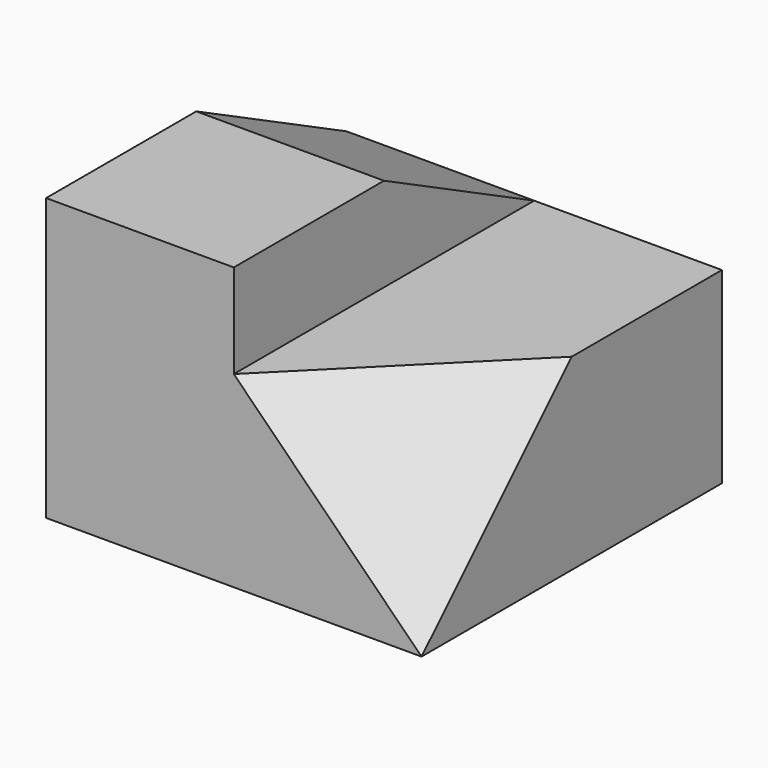
from build123d import *

# Parameters (mm, degrees)
F1_DEPTH = 127
F3_DEPTH = 127
F7_DEPTH = 246.888


with BuildPart() as f1:
    # F0 (on Front) → F1 (new body, symmetric)
    with BuildSketch(Plane.XZ):
        Polygon((0, 190.5), (0, 0), (254, 0), (254, 127), (127, 127), (127, 190.5), align=None)
    extrude(amount=F1_DEPTH, both=True)

    # F2 (on face) → F3 (cut)
    with BuildSketch(Plane.YZ.offset(127)):
        Polygon((127, 190.5), (0, 190.5), (127, 127), align=None)
    extrude(amount=-F3_DEPTH, mode=Mode.SUBTRACT)

    # F6 (on 3pt) → F7 (cut)
    with BuildSketch(Plane(origin=(127, -127, 127), x_dir=(0.8164965809, 0.4082482905, -0.4082482905), z_dir=(0.5773502692, -0.5773502692, 0.5773502692))):
        Polygon((155.5425986667, 89.8025612107), (0, 0), (155.5425986667, -89.8025612107), align=None)
    extrude(amount=F7_DEPTH, mode=Mode.SUBTRACT)


solid = f1.part
